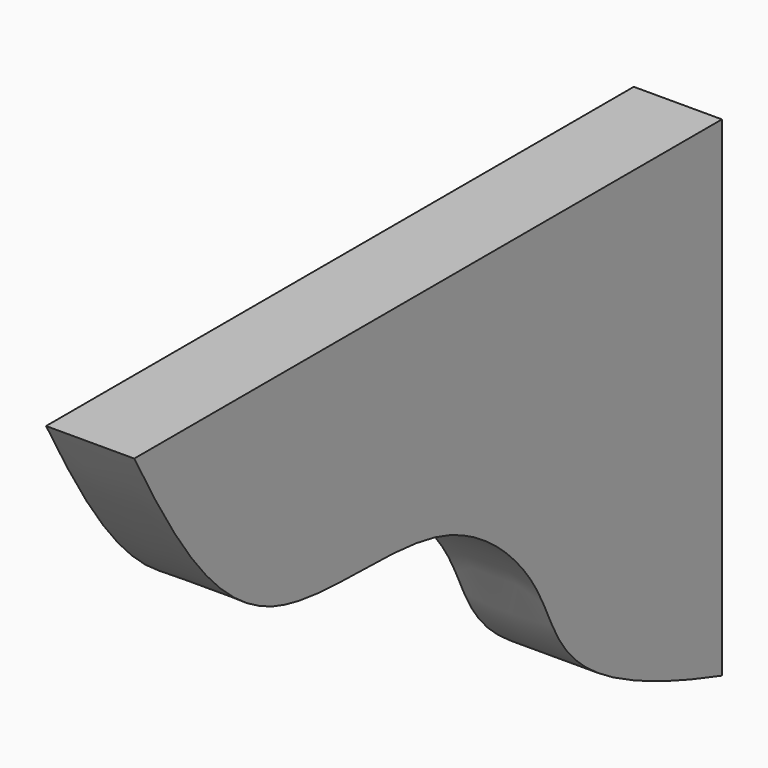
from build123d import *

# Parameters (mm, degrees)
F1_DEPTH = 18


with BuildPart() as f1:
    # F0 (on Right) → F1 (new body)
    with BuildSketch(Plane.YZ):
        with BuildLine():
            Line((78.6965720356, 65.3012499022), (-71.3034279644, 65.3012499022))
            add(Edge.make_bspline(
                [(-71.3034279644, 65.3012499022), (-60.4337800464, 45.246787237), (-41.4924771559, 15.5822415828), (7.8155446818, 26.4972307975), (39.2114959695, -4.1729265655), (36.3111868788, -21.8854235422), (78.6965720356, -34.6987500978)],
                knots=[0, 0, 0, 0, 0.2705878472, 0.5113538354, 0.7200668593, 1, 1, 1, 1], degree=3))
            Line((78.6965720356, -34.6987500978), (78.6965720356, 65.3012499022))
        make_face()
    extrude(amount=F1_DEPTH)


solid = f1.part
